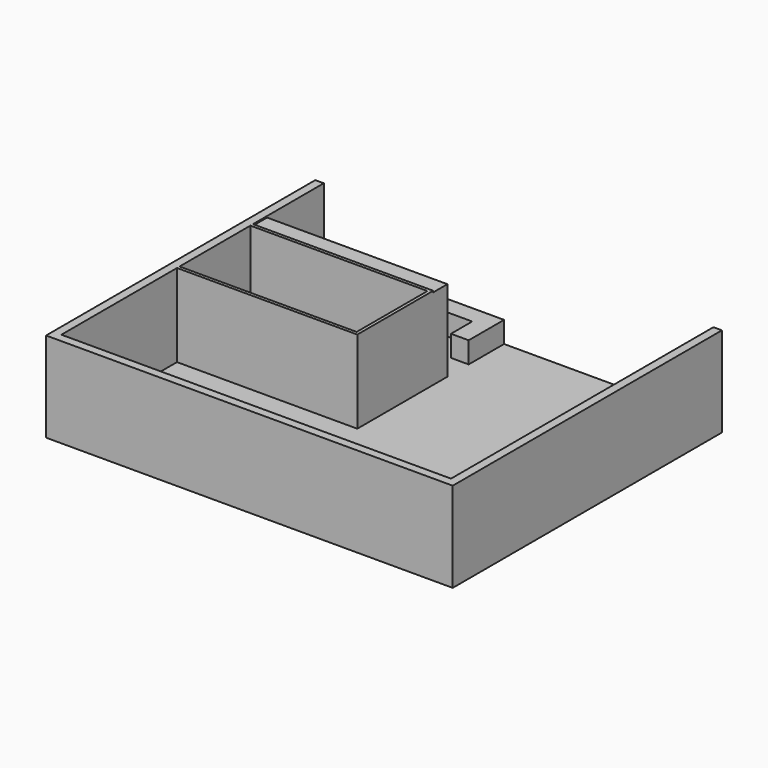
from build123d import *

# Parameters (mm, degrees)
F0_W     = 11480
F0_H     = 9500
F1_DEPTH = 200
F3_DEPTH = 2340
F5_DEPTH = 2340
F6_W     = 5090
F6_H     = 500
F7_DEPTH = 2300
F8_DEPTH = 600


with BuildPart() as f1:
    # F0 (on Top) → F1 (new body)
    with BuildSketch(Plane.XY):
        Rectangle(F0_W, F0_H)
    extrude(amount=-F1_DEPTH)

    # F2 (on face) → F3 (join)
    with BuildSketch(Plane.XY):
        Polygon((-5500, 4750), (-5740, 4750), (-5740, -4750), (-5500, -4750), (5740, -4750), (5740, -4510), (5740, 4750), (5500, 4750), (5500, -4510), (-5500, -4510), align=None)
    extrude(amount=F3_DEPTH)

    # F4 (on face) → F5 (join)
    with BuildSketch(Plane.XY):
        Polygon((-5500, -340), (-5500, -430), (-410, -430), (-410, -340), (-410, 2160), (-410, 2250), (-5500, 2250), (-5500, 2160), (-500, 2160), (-500, -340), align=None)
    extrude(amount=F5_DEPTH)

    # F6 (on face) → F7 (join)
    with BuildSketch(Plane.XY):
        with Locations((-2955, 2500)):
            Rectangle(F6_W, F6_H)
    extrude(amount=F7_DEPTH)

    # F6 (on face) → F8 (join)
    with BuildSketch(Plane.XY):
        Polygon((-910, 4750), (-4750, 4750), (-4750, 4250), (-910, 4250), (-910, 3500), (-410, 3500), (-410, 4250), (-410, 4750), align=None)
    extrude(amount=F8_DEPTH)


solid = f1.part
